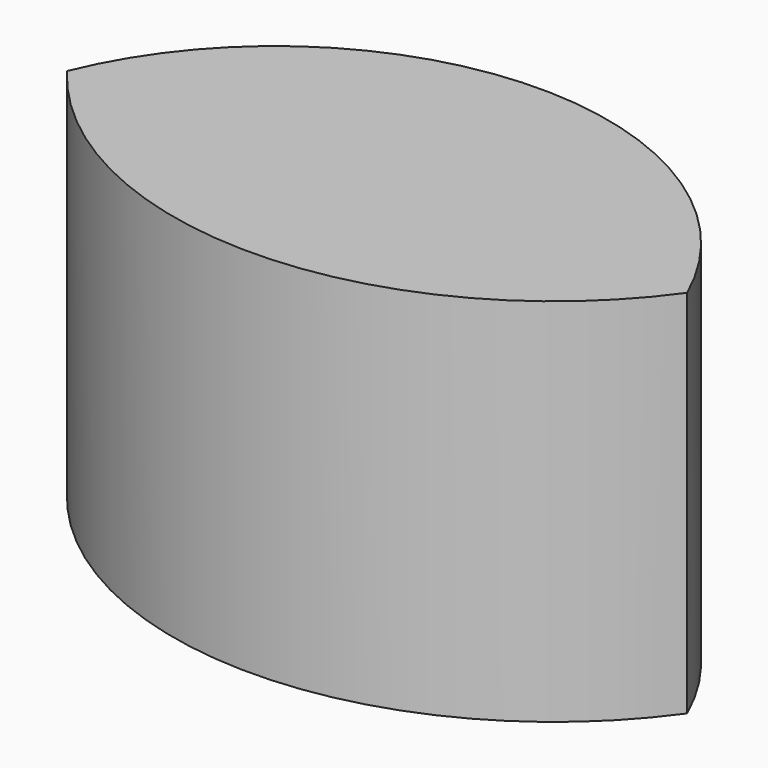
from build123d import *

# Parameters (mm, degrees)
F1_DEPTH = 9.398


with BuildPart() as f1:
    # F0 (on Top) → F1 (new body)
    with BuildSketch(Plane.XY):
        with BuildLine():
            ThreePointArc((-7.753575, 22.96795), (0.079319, 19.16697), (7.787631, 23.214637))
            ThreePointArc((7.787631, 23.214637), (-0.064562, 28.231461), (-7.753575, 22.96795))
        make_face()
    extrude(amount=F1_DEPTH)


solid = f1.part
